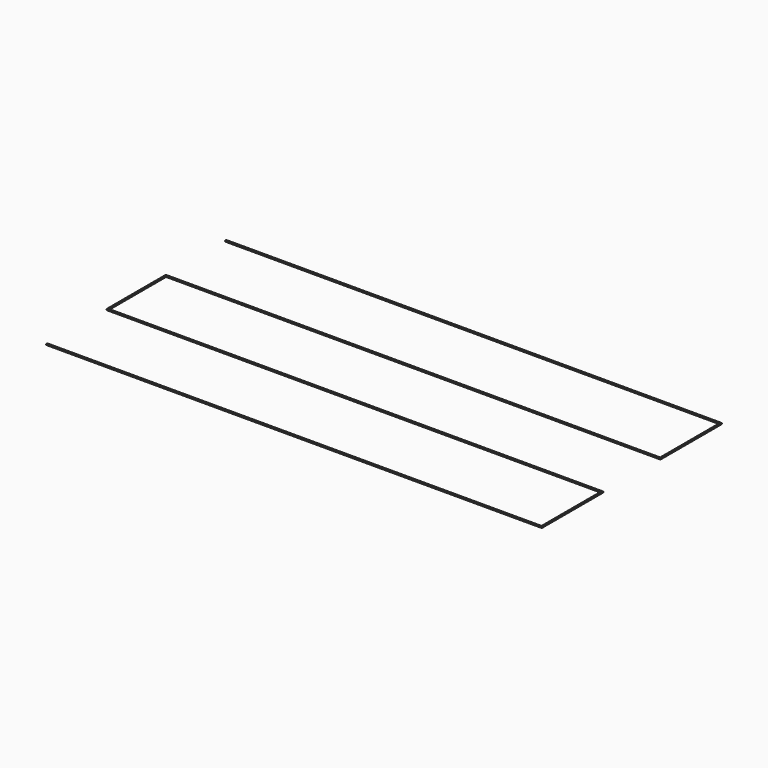
from build123d import *

# Parameters (mm, degrees)
F1_DEPTH = 0.4


with BuildPart() as f1:
    # F0 (on Top) → F1 (new body)
    with BuildSketch(Plane.XY):
        Polygon((200, 0), (0, 0), (0, -0.55), (200.55, -0.55), (200.55, 30.55), (0.55, 30.55), (0.55, 59.45), (200.55, 59.45), (200.55, 90.55), (0, 90.55), (0, 90), (200, 90), (200, 60), (0, 60), (0, 30), (200, 30), align=None)
    extrude(amount=F1_DEPTH)


solid = f1.part
